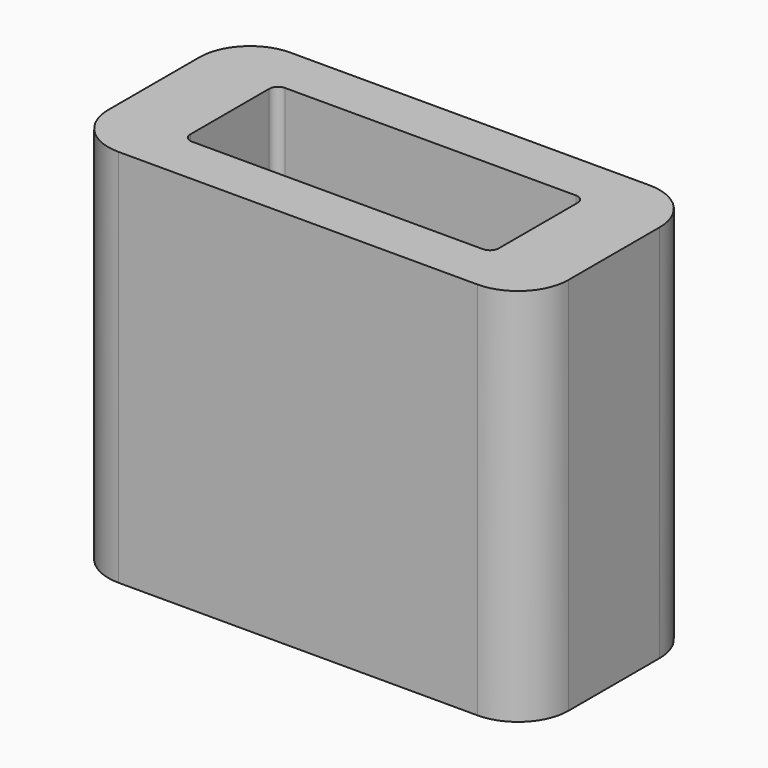
from build123d import *

# Parameters (mm, degrees)
F0_W     = 0.7
F0_H     = 0.3
F0_W_2   = 0.25
F1_DEPTH = 13
F0_W_3   = 0.1
F2_DEPTH = 2


with BuildPart() as f1:
    # F0 (on Top) → F1 (new body)
    with BuildSketch(Plane.XY):
        with BuildLine():
            ThreePointArc((-9.8996258792, -1.990333008), (-9.3138394415, -3.4045465704), (-7.8996258792, -3.990333008))
            Line((-7.8996258792, -3.990333008), (6.3003741208, -3.990333008))
            ThreePointArc((6.3003741208, -3.990333008), (7.7145876832, -3.4045465704), (8.3003741208, -1.990333008))
            Line((8.3003741208, -1.990333008), (8.3003741208, 2.509666992))
            ThreePointArc((8.3003741208, 2.509666992), (7.7145876832, 3.9238805544), (6.3003741208, 4.509666992))
            Line((6.3003741208, 4.509666992), (-7.8996258792, 4.509666992))
            ThreePointArc((-7.8996258792, 4.509666992), (-9.3138394415, 3.9238805544), (-9.8996258792, 2.509666992))
            Line((-9.8996258792, 2.509666992), (-9.8996258792, -1.990333008))
        make_face()
        with BuildLine():
            Line((-8.6496258792, 1.359666992), (-7.5996258792, 1.359666992))
            Line((-7.5996258792, 1.359666992), (-7.5996258792, 2.209666992))
            ThreePointArc((-7.5996258792, 2.209666992), (-7.2920879994, 2.9521291122), (-6.5496258792, 3.259666992))
            Line((-6.5496258792, 3.259666992), (4.9503741208, 3.259666992))
            ThreePointArc((4.9503741208, 3.259666992), (5.6928362411, 2.9521291122), (6.0003741208, 2.209666992))
            Line((6.0003741208, 2.209666992), (6.0003741208, 1.359666992))
            Line((6.0003741208, 1.359666992), (7.0503741208, 1.359666992))
            Line((7.0503741208, 1.359666992), (7.0503741208, 0.359666992))
            Line((7.0503741208, 0.359666992), (7.0503741208, -0.840333008))
            Line((7.0503741208, -0.840333008), (6.0003741208, -0.840333008))
            Line((6.0003741208, -0.840333008), (6.0003741208, -1.690333008))
            ThreePointArc((6.0003741208, -1.690333008), (5.6928362411, -2.4327951283), (4.9503741208, -2.740333008))
            Line((4.9503741208, -2.740333008), (-6.5496258792, -2.740333008))
            ThreePointArc((-6.5496258792, -2.740333008), (-7.2920879994, -2.4327951283), (-7.5996258792, -1.690333008))
            Line((-7.5996258792, -1.690333008), (-7.5996258792, -0.840333008))
            Line((-7.5996258792, -0.840333008), (-8.6496258792, -0.840333008))
            Line((-8.6496258792, -0.840333008), (-8.6496258792, 0.359666992))
            Line((-8.6496258792, 0.359666992), (-8.6496258792, 1.359666992))
        make_face(mode=Mode.SUBTRACT)
        with BuildLine():
            Line((-7.5996258792, 0.559666992), (-6.8996258792, 0.559666992))
            Line((-6.8996258792, 0.559666992), (-6.8996258792, 0.759666992))
            Line((-6.8996258792, 0.759666992), (-6.8996258792, 2.209666992))
            ThreePointArc((-6.8996258792, 2.209666992), (-6.7971132526, 2.4571543654), (-6.5496258792, 2.559666992))
            Line((-6.5496258792, 2.559666992), (4.9503741208, 2.559666992))
            ThreePointArc((4.9503741208, 2.559666992), (5.1978614943, 2.4571543654), (5.3003741208, 2.209666992))
            Line((5.3003741208, 2.209666992), (5.3003741208, 0.759666992))
            Line((5.3003741208, 0.759666992), (5.3003741208, 0.559666992))
            Line((5.3003741208, 0.559666992), (6.0003741208, 0.559666992))
            Line((6.0003741208, 0.559666992), (6.0003741208, 1.359666992))
            Line((6.0003741208, 1.359666992), (6.0003741208, 2.209666992))
            ThreePointArc((6.0003741208, 2.209666992), (5.6928362411, 2.9521291122), (4.9503741208, 3.259666992))
            Line((4.9503741208, 3.259666992), (-6.5496258792, 3.259666992))
            ThreePointArc((-6.5496258792, 3.259666992), (-7.2920879994, 2.9521291122), (-7.5996258792, 2.209666992))
            Line((-7.5996258792, 2.209666992), (-7.5996258792, 1.359666992))
            Line((-7.5996258792, 1.359666992), (-7.5996258792, 0.559666992))
        make_face()
        Polygon((-7.8496258792, 0.559666992), (-7.5996258792, 0.559666992), (-7.5996258792, 1.359666992), (-8.6496258792, 1.359666992), (-8.6496258792, 0.359666992), (-8.6496258792, -0.840333008), (-7.5996258792, -0.840333008), (-7.5996258792, -0.040333008), (-7.8496258792, -0.040333008), (-7.8496258792, 0.259666992), align=None)
        with Locations((-7.2496258792, 0.409666992)):
            Rectangle(F0_W, F0_H)
        with Locations((-7.7246258792, 0.409666992)):
            Rectangle(F0_W_2, F0_H)
        with Locations((-7.2496258792, 0.109666992)):
            Rectangle(F0_W, F0_H)
        with BuildLine():
            Line((-6.8996258792, -1.690333008), (-6.8996258792, -0.040333008))
            Line((-6.8996258792, -0.040333008), (-7.5996258792, -0.040333008))
            Line((-7.5996258792, -0.040333008), (-7.5996258792, -0.840333008))
            Line((-7.5996258792, -0.840333008), (-7.5996258792, -1.690333008))
            ThreePointArc((-7.5996258792, -1.690333008), (-7.2920879994, -2.4327951283), (-6.5496258792, -2.740333008))
            Line((-6.5496258792, -2.740333008), (4.9503741208, -2.740333008))
            ThreePointArc((4.9503741208, -2.740333008), (5.6928362411, -2.4327951283), (6.0003741208, -1.690333008))
            Line((6.0003741208, -1.690333008), (6.0003741208, -0.840333008))
            Line((6.0003741208, -0.840333008), (6.0003741208, -0.040333008))
            Line((6.0003741208, -0.040333008), (5.3003741208, -0.040333008))
            Line((5.3003741208, -0.040333008), (5.3003741208, -1.690333008))
            ThreePointArc((5.3003741208, -1.690333008), (5.1978614943, -1.9378203814), (4.9503741208, -2.040333008))
            Line((4.9503741208, -2.040333008), (-6.5496258792, -2.040333008))
            ThreePointArc((-6.5496258792, -2.040333008), (-6.7971132526, -1.9378203814), (-6.8996258792, -1.690333008))
        make_face()
        with Locations((5.6503741208, 0.109666992)):
            Rectangle(F0_W, F0_H)
        with Locations((5.6503741208, 0.409666992)):
            Rectangle(F0_W, F0_H)
        Polygon((6.0003741208, 1.359666992), (6.0003741208, 0.559666992), (6.2503741208, 0.559666992), (6.2503741208, 0.259666992), (6.2503741208, -0.040333008), (6.0003741208, -0.040333008), (6.0003741208, -0.840333008), (7.0503741208, -0.840333008), (7.0503741208, 0.359666992), (7.0503741208, 1.359666992), align=None)
        with Locations((6.1253741208, 0.409666992)):
            Rectangle(F0_W_2, F0_H)
        with Locations((6.1253741208, 0.109666992)):
            Rectangle(F0_W_2, F0_H)
        with Locations((-7.7246258792, 0.109666992)):
            Rectangle(F0_W_2, F0_H)
    extrude(amount=F1_DEPTH)

    # F0 (on Top) → F2 (join)
    with BuildSketch(Plane.XY):
        with BuildLine():
            ThreePointArc((-9.8996258792, -1.990333008), (-9.3138394415, -3.4045465704), (-7.8996258792, -3.990333008))
            Line((-7.8996258792, -3.990333008), (6.3003741208, -3.990333008))
            ThreePointArc((6.3003741208, -3.990333008), (7.7145876832, -3.4045465704), (8.3003741208, -1.990333008))
            Line((8.3003741208, -1.990333008), (8.3003741208, 2.509666992))
            ThreePointArc((8.3003741208, 2.509666992), (7.7145876832, 3.9238805544), (6.3003741208, 4.509666992))
            Line((6.3003741208, 4.509666992), (-7.8996258792, 4.509666992))
            ThreePointArc((-7.8996258792, 4.509666992), (-9.3138394415, 3.9238805544), (-9.8996258792, 2.509666992))
            Line((-9.8996258792, 2.509666992), (-9.8996258792, -1.990333008))
        make_face()
        with BuildLine():
            Line((-8.6496258792, 1.359666992), (-7.5996258792, 1.359666992))
            Line((-7.5996258792, 1.359666992), (-7.5996258792, 2.209666992))
            ThreePointArc((-7.5996258792, 2.209666992), (-7.2920879994, 2.9521291122), (-6.5496258792, 3.259666992))
            Line((-6.5496258792, 3.259666992), (4.9503741208, 3.259666992))
            ThreePointArc((4.9503741208, 3.259666992), (5.6928362411, 2.9521291122), (6.0003741208, 2.209666992))
            Line((6.0003741208, 2.209666992), (6.0003741208, 1.359666992))
            Line((6.0003741208, 1.359666992), (7.0503741208, 1.359666992))
            Line((7.0503741208, 1.359666992), (7.0503741208, 0.359666992))
            Line((7.0503741208, 0.359666992), (7.0503741208, -0.840333008))
            Line((7.0503741208, -0.840333008), (6.0003741208, -0.840333008))
            Line((6.0003741208, -0.840333008), (6.0003741208, -1.690333008))
            ThreePointArc((6.0003741208, -1.690333008), (5.6928362411, -2.4327951283), (4.9503741208, -2.740333008))
            Line((4.9503741208, -2.740333008), (-6.5496258792, -2.740333008))
            ThreePointArc((-6.5496258792, -2.740333008), (-7.2920879994, -2.4327951283), (-7.5996258792, -1.690333008))
            Line((-7.5996258792, -1.690333008), (-7.5996258792, -0.840333008))
            Line((-7.5996258792, -0.840333008), (-8.6496258792, -0.840333008))
            Line((-8.6496258792, -0.840333008), (-8.6496258792, 0.359666992))
            Line((-8.6496258792, 0.359666992), (-8.6496258792, 1.359666992))
        make_face(mode=Mode.SUBTRACT)
        with BuildLine():
            Line((4.9503741208, 2.459666992), (-6.5496258792, 2.459666992))
            ThreePointArc((-6.5496258792, 2.459666992), (-6.7264025745, 2.3864436873), (-6.7996258792, 2.209666992))
            Line((-6.7996258792, 2.209666992), (-6.7996258792, 0.559666992))
            Line((-6.7996258792, 0.559666992), (-6.7996258792, 0.259666992))
            Line((-6.7996258792, 0.259666992), (-6.7996258792, -0.040333008))
            Line((-6.7996258792, -0.040333008), (-6.7996258792, -1.690333008))
            ThreePointArc((-6.7996258792, -1.690333008), (-6.7264025745, -1.8671097033), (-6.5496258792, -1.940333008))
            Line((-6.5496258792, -1.940333008), (4.9503741208, -1.940333008))
            ThreePointArc((4.9503741208, -1.940333008), (5.1271508161, -1.8671097033), (5.2003741208, -1.690333008))
            Line((5.2003741208, -1.690333008), (5.2003741208, -0.040333008))
            Line((5.2003741208, -0.040333008), (5.2003741208, 0.259666992))
            Line((5.2003741208, 0.259666992), (5.2003741208, 0.559666992))
            Line((5.2003741208, 0.559666992), (5.2003741208, 2.209666992))
            ThreePointArc((5.2003741208, 2.209666992), (5.1271508161, 2.3864436873), (4.9503741208, 2.459666992))
        make_face()
        with BuildLine():
            Line((-6.8996258792, -1.690333008), (-6.8996258792, -0.040333008))
            Line((-6.8996258792, -0.040333008), (-7.5996258792, -0.040333008))
            Line((-7.5996258792, -0.040333008), (-7.5996258792, -0.840333008))
            Line((-7.5996258792, -0.840333008), (-7.5996258792, -1.690333008))
            ThreePointArc((-7.5996258792, -1.690333008), (-7.2920879994, -2.4327951283), (-6.5496258792, -2.740333008))
            Line((-6.5496258792, -2.740333008), (4.9503741208, -2.740333008))
            ThreePointArc((4.9503741208, -2.740333008), (5.6928362411, -2.4327951283), (6.0003741208, -1.690333008))
            Line((6.0003741208, -1.690333008), (6.0003741208, -0.840333008))
            Line((6.0003741208, -0.840333008), (6.0003741208, -0.040333008))
            Line((6.0003741208, -0.040333008), (5.3003741208, -0.040333008))
            Line((5.3003741208, -0.040333008), (5.3003741208, -1.690333008))
            ThreePointArc((5.3003741208, -1.690333008), (5.1978614943, -1.9378203814), (4.9503741208, -2.040333008))
            Line((4.9503741208, -2.040333008), (-6.5496258792, -2.040333008))
            ThreePointArc((-6.5496258792, -2.040333008), (-6.7971132526, -1.9378203814), (-6.8996258792, -1.690333008))
        make_face()
        with BuildLine():
            Line((-7.5996258792, 0.559666992), (-6.8996258792, 0.559666992))
            Line((-6.8996258792, 0.559666992), (-6.8996258792, 0.759666992))
            Line((-6.8996258792, 0.759666992), (-6.8996258792, 2.209666992))
            ThreePointArc((-6.8996258792, 2.209666992), (-6.7971132526, 2.4571543654), (-6.5496258792, 2.559666992))
            Line((-6.5496258792, 2.559666992), (4.9503741208, 2.559666992))
            ThreePointArc((4.9503741208, 2.559666992), (5.1978614943, 2.4571543654), (5.3003741208, 2.209666992))
            Line((5.3003741208, 2.209666992), (5.3003741208, 0.759666992))
            Line((5.3003741208, 0.759666992), (5.3003741208, 0.559666992))
            Line((5.3003741208, 0.559666992), (6.0003741208, 0.559666992))
            Line((6.0003741208, 0.559666992), (6.0003741208, 1.359666992))
            Line((6.0003741208, 1.359666992), (6.0003741208, 2.209666992))
            ThreePointArc((6.0003741208, 2.209666992), (5.6928362411, 2.9521291122), (4.9503741208, 3.259666992))
            Line((4.9503741208, 3.259666992), (-6.5496258792, 3.259666992))
            ThreePointArc((-6.5496258792, 3.259666992), (-7.2920879994, 2.9521291122), (-7.5996258792, 2.209666992))
            Line((-7.5996258792, 2.209666992), (-7.5996258792, 1.359666992))
            Line((-7.5996258792, 1.359666992), (-7.5996258792, 0.559666992))
        make_face()
        Polygon((-7.8496258792, 0.559666992), (-7.5996258792, 0.559666992), (-7.5996258792, 1.359666992), (-8.6496258792, 1.359666992), (-8.6496258792, 0.359666992), (-8.6496258792, -0.840333008), (-7.5996258792, -0.840333008), (-7.5996258792, -0.040333008), (-7.8496258792, -0.040333008), (-7.8496258792, 0.259666992), align=None)
        Polygon((6.0003741208, 1.359666992), (6.0003741208, 0.559666992), (6.2503741208, 0.559666992), (6.2503741208, 0.259666992), (6.2503741208, -0.040333008), (6.0003741208, -0.040333008), (6.0003741208, -0.840333008), (7.0503741208, -0.840333008), (7.0503741208, 0.359666992), (7.0503741208, 1.359666992), align=None)
        with BuildLine():
            Line((-6.7996258792, -1.690333008), (-6.7996258792, -0.040333008))
            Line((-6.7996258792, -0.040333008), (-6.8996258792, -0.040333008))
            Line((-6.8996258792, -0.040333008), (-6.8996258792, -1.690333008))
            ThreePointArc((-6.8996258792, -1.690333008), (-6.7971132526, -1.9378203814), (-6.5496258792, -2.040333008))
            Line((-6.5496258792, -2.040333008), (4.9503741208, -2.040333008))
            ThreePointArc((4.9503741208, -2.040333008), (5.1978614943, -1.9378203814), (5.3003741208, -1.690333008))
            Line((5.3003741208, -1.690333008), (5.3003741208, -0.040333008))
            Line((5.3003741208, -0.040333008), (5.2003741208, -0.040333008))
            Line((5.2003741208, -0.040333008), (5.2003741208, -1.690333008))
            ThreePointArc((5.2003741208, -1.690333008), (5.1271508161, -1.8671097033), (4.9503741208, -1.940333008))
            Line((4.9503741208, -1.940333008), (-6.5496258792, -1.940333008))
            ThreePointArc((-6.5496258792, -1.940333008), (-6.7264025745, -1.8671097033), (-6.7996258792, -1.690333008))
        make_face()
        with BuildLine():
            ThreePointArc((-6.7996258792, 2.209666992), (-6.7264025745, 2.3864436873), (-6.5496258792, 2.459666992))
            Line((-6.5496258792, 2.459666992), (4.9503741208, 2.459666992))
            ThreePointArc((4.9503741208, 2.459666992), (5.1271508161, 2.3864436873), (5.2003741208, 2.209666992))
            Line((5.2003741208, 2.209666992), (5.2003741208, 0.559666992))
            Line((5.2003741208, 0.559666992), (5.3003741208, 0.559666992))
            Line((5.3003741208, 0.559666992), (5.3003741208, 0.759666992))
            Line((5.3003741208, 0.759666992), (5.3003741208, 2.209666992))
            ThreePointArc((5.3003741208, 2.209666992), (5.1978614943, 2.4571543654), (4.9503741208, 2.559666992))
            Line((4.9503741208, 2.559666992), (-6.5496258792, 2.559666992))
            ThreePointArc((-6.5496258792, 2.559666992), (-6.7971132526, 2.4571543654), (-6.8996258792, 2.209666992))
            Line((-6.8996258792, 2.209666992), (-6.8996258792, 0.759666992))
            Line((-6.8996258792, 0.759666992), (-6.8996258792, 0.559666992))
            Line((-6.8996258792, 0.559666992), (-6.7996258792, 0.559666992))
            Line((-6.7996258792, 0.559666992), (-6.7996258792, 2.209666992))
        make_face()
        with Locations((5.6503741208, 0.109666992)):
            Rectangle(F0_W, F0_H)
        with Locations((-7.2496258792, 0.109666992)):
            Rectangle(F0_W, F0_H)
        with Locations((-7.2496258792, 0.409666992)):
            Rectangle(F0_W, F0_H)
        with Locations((5.6503741208, 0.409666992)):
            Rectangle(F0_W, F0_H)
        with Locations((6.1253741208, 0.409666992)):
            Rectangle(F0_W_2, F0_H)
        with Locations((6.1253741208, 0.109666992)):
            Rectangle(F0_W_2, F0_H)
        with Locations((-7.7246258792, 0.109666992)):
            Rectangle(F0_W_2, F0_H)
        with Locations((-7.7246258792, 0.409666992)):
            Rectangle(F0_W_2, F0_H)
        with Locations((5.2503741208, 0.409666992)):
            Rectangle(F0_W_3, F0_H)
        with Locations((5.2503741208, 0.109666992)):
            Rectangle(F0_W_3, F0_H)
        with Locations((-6.8496258792, 0.109666992)):
            Rectangle(F0_W_3, F0_H)
        with Locations((-6.8496258792, 0.409666992)):
            Rectangle(F0_W_3, F0_H)
    extrude(amount=-F2_DEPTH)


solid = f1.part
